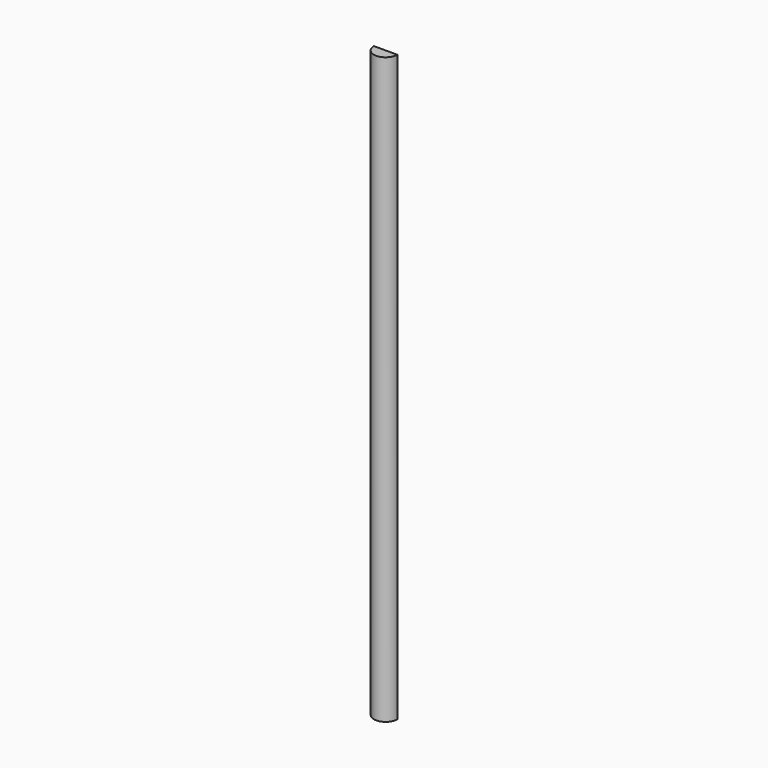
from build123d import *

# Parameters (mm, degrees)
F1_DEPTH = 1000
F3_D     = 8
F3_DEPTH = 10
F3_TIP   = 2.4034424761


with BuildPart() as f1:
    # F0 (on Top) → F1 (new body)
    with BuildSketch(Plane.XY):
        with BuildLine():
            Line((20, 0), (-20, 0))
            ThreePointArc((-20, 0), (0, -20), (20, 0))
        make_face()
    extrude(amount=F1_DEPTH)

    # F3
    with Locations(Plane(origin=(0, 0, 0), x_dir=(-1, 0, 0), z_dir=(0, 1, 0))):
        with Locations((-10, 280), (10, 280), (-10, 120), (10, 120)):
            Hole(F3_D / 2, depth=F3_DEPTH)
            with Locations((0, 0, -(F3_DEPTH + F3_TIP / 2))):  # 118° drill point
                Cone(0, F3_D / 2, F3_TIP, mode=Mode.SUBTRACT)


solid = f1.part
